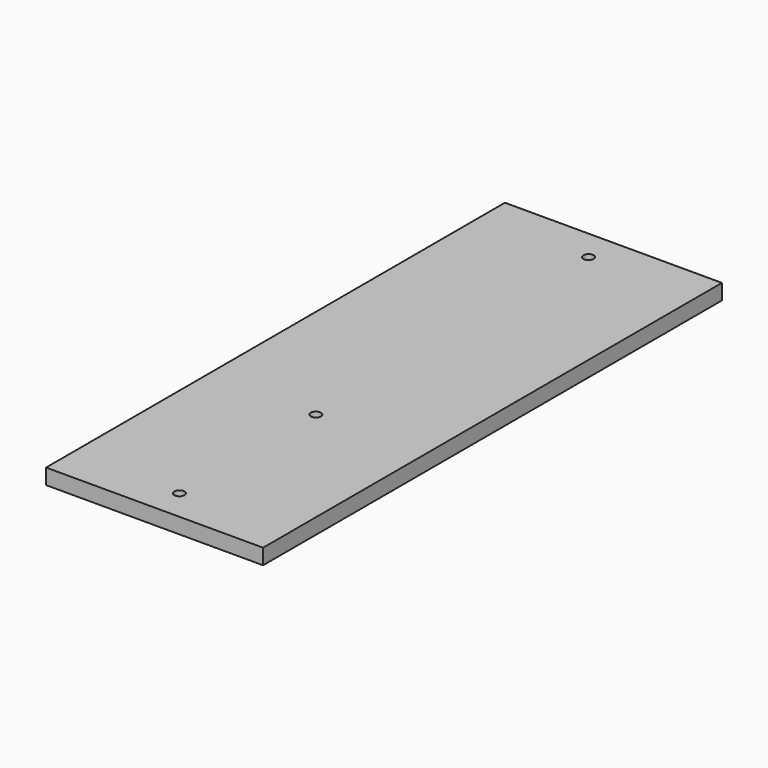
from build123d import *

# Parameters (mm, degrees)
F0_W     = 70
F0_H     = 185
F1_DEPTH = 5
F3_D     = 3.3


with BuildPart() as f1:
    # F0 (on Top) → F1 (new body)
    with BuildSketch(Plane.XY):
        with Locations((35, 92.5)):
            Rectangle(F0_W, F0_H)
    extrude(amount=F1_DEPTH)

    # F3 (through all)
    with Locations(Plane.XY.offset(5)):
        with Locations((35, 175), (35, 65), (35, 10)):
            Hole(F3_D / 2)


solid = f1.part
